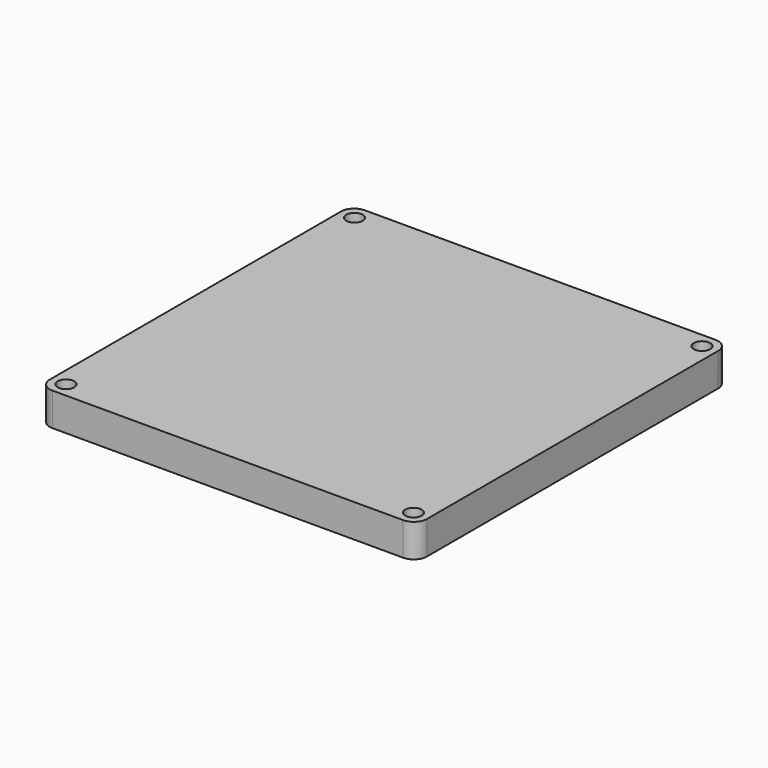
from build123d import *

# Parameters (mm, degrees)
F0_W     = 144.78
F0_H     = 149.86
F0_R     = 3.175
F1_DEPTH = 12.7
F2_R     = 5.08


with BuildPart() as f1:
    # F0 (on Top) → F1 (new body)
    with BuildSketch(Plane.XY):
        with Locations((1.677425, -5.669231)):
            Rectangle(F0_W, F0_H)
        with Locations((-64.997575, -74.884231)):
            Circle(F0_R, mode=Mode.SUBTRACT)
        with Locations((68.352425, -74.884231)):
            Circle(F0_R, mode=Mode.SUBTRACT)
        with Locations((-64.997575, 63.545769)):
            Circle(F0_R, mode=Mode.SUBTRACT)
        with Locations((68.352425, 63.545769)):
            Circle(F0_R, mode=Mode.SUBTRACT)
    extrude(amount=F1_DEPTH)

    # F2
    f2_edges = [f1.edges().sort_by_distance(p)[0] for p in [
        (74.067425, 69.260769, 6.35),
        (74.067425, -80.599231, 6.35),
        (-70.712575, 69.260769, 6.35),
        (-70.712575, -80.599231, 6.35),
    ]]
    fillet(f2_edges, radius=F2_R)


solid = f1.part
